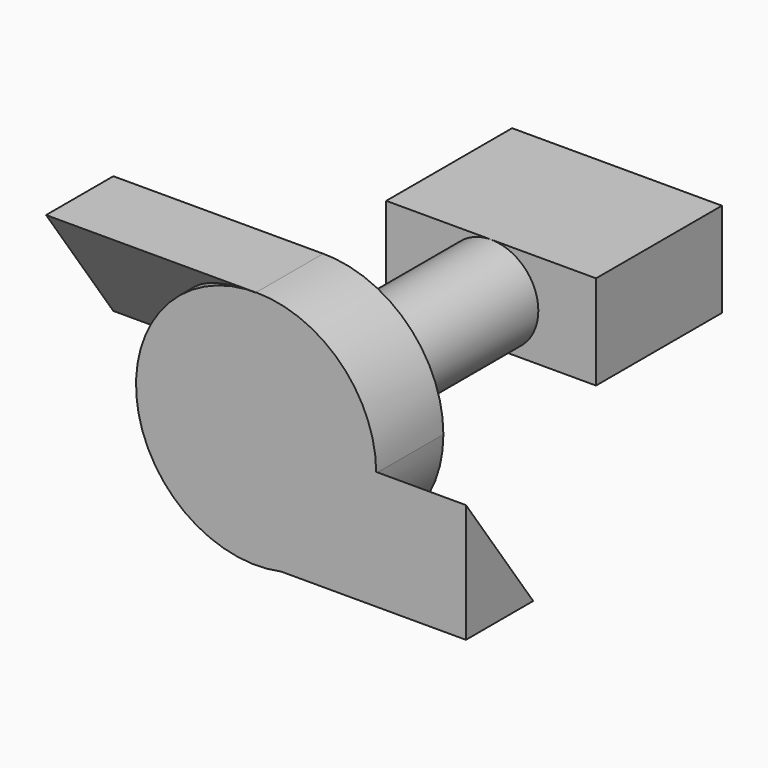
from build123d import *

# Parameters (mm, degrees)
F0_R     = 14.5415
F1_DEPTH = 10.16
F4_DEPTH = 25.4
F5_DEPTH = 25.4
F6_R     = 5.715
F7_DEPTH = 25.4
F8_W     = 25.4
F8_H     = 11.43
F9_DEPTH = 19.05


with BuildPart() as f1:
    # F0 (on Front) → F1 (new body)
    with BuildSketch(Plane.XZ):
        Circle(F0_R)
    extrude(amount=F1_DEPTH)

    # F3 (on Right) → F4 (join)
    with BuildSketch(Plane.YZ):
        Polygon((-10.16, -14.225606), (0.017161, -14.225606), (-10.16, 0.135286), align=None)
    extrude(amount=F4_DEPTH)

    # F2 (on Right) → F5 (join)
    with BuildSketch(Plane.YZ):
        Polygon((-0.017161, 14.5415), (-10.194321, 14.5415), (-0.017161, 0.180608), align=None)
    extrude(amount=-F5_DEPTH)

    # F6 (on Front) → F7 (join)
    with BuildSketch(Plane.XZ):
        Circle(F6_R)
    extrude(amount=-F7_DEPTH)

    # F8 (on face) → F9 (join)
    with BuildSketch(Plane(origin=(0, 25.4, 0), x_dir=(-1, 0, 0), z_dir=(0, 1, 0))):
        Rectangle(F8_W, F8_H)
    extrude(amount=F9_DEPTH)


solid = f1.part
